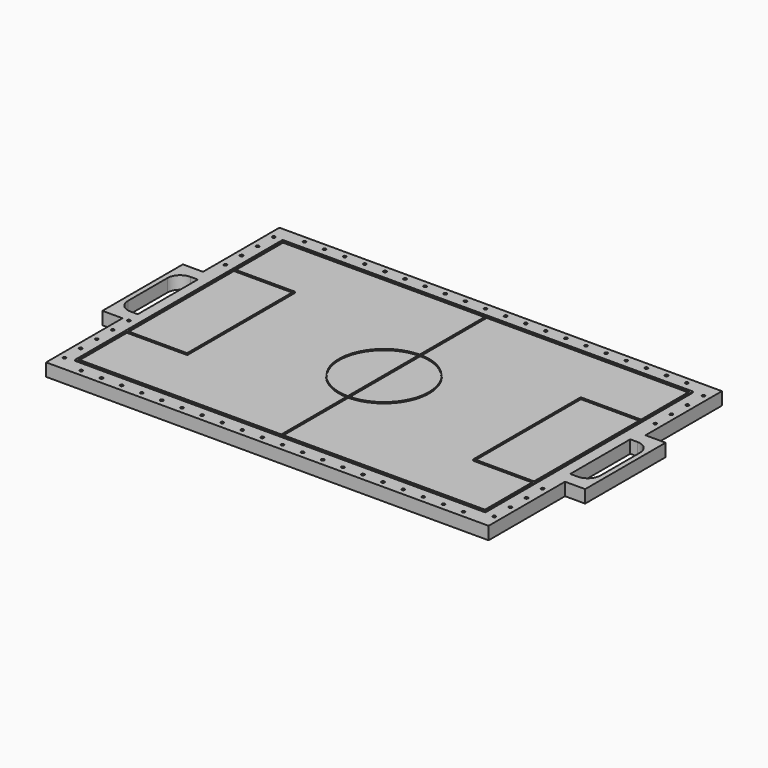
from build123d import *

# Parameters (mm, degrees)
F0_R     = 1.5
F1_DEPTH = 12.7
F2_W     = 408
F2_H     = 258
F2_W_2   = 59
F2_H_2   = 132
F3_DEPTH = 1


with BuildPart() as f1:
    # F0 (on Top) → F1 (new body)
    with BuildSketch(Plane.XY):
        Polygon((103.953788, 154.93784), (-336.046212, 154.93784), (-336.046212, 59.93784), (-356.046212, 59.93784), (-356.046212, -40.06216), (-336.046212, -40.06216), (-336.046212, -135.06216), (103.953788, -135.06216), (103.953788, -40.06216), (123.953788, -40.06216), (123.953788, 59.93784), (103.953788, 59.93784), align=None)
        with Locations((-329.696212, -120.06216)):
            Circle(F0_R, mode=Mode.SUBTRACT)
        with Locations((-306.046212, -128.71216)):
            Circle(F0_R, mode=Mode.SUBTRACT)
        with Locations((-329.701892, -100.062161)):
            Circle(F0_R, mode=Mode.SUBTRACT)
        with Locations((-286.046212, -128.71216)):
            Circle(F0_R, mode=Mode.SUBTRACT)
        with Locations((-266.046212, -128.71216)):
            Circle(F0_R, mode=Mode.SUBTRACT)
        with Locations((-246.046212, -128.71216)):
            Circle(F0_R, mode=Mode.SUBTRACT)
        with Locations((-329.707572, -80.062162)):
            Circle(F0_R, mode=Mode.SUBTRACT)
        with Locations((-226.046212, -128.71216)):
            Circle(F0_R, mode=Mode.SUBTRACT)
        with Locations((-206.046212, -128.71216)):
            Circle(F0_R, mode=Mode.SUBTRACT)
        with Locations((-186.046212, -128.71216)):
            Circle(F0_R, mode=Mode.SUBTRACT)
        with Locations((-166.046212, -128.71216)):
            Circle(F0_R, mode=Mode.SUBTRACT)
        with Locations((-146.046212, -128.71216)):
            Circle(F0_R, mode=Mode.SUBTRACT)
        with Locations((-126.046212, -128.71216)):
            Circle(F0_R, mode=Mode.SUBTRACT)
        with Locations((-329.713253, -60.062163)):
            Circle(F0_R, mode=Mode.SUBTRACT)
        with Locations((-329.718933, -40.062164)):
            Circle(F0_R, mode=Mode.SUBTRACT)
        with Locations((-106.046212, -128.71216)):
            Circle(F0_R, mode=Mode.SUBTRACT)
        with Locations((-86.046212, -128.71216)):
            Circle(F0_R, mode=Mode.SUBTRACT)
        with Locations((-66.046212, -128.71216)):
            Circle(F0_R, mode=Mode.SUBTRACT)
        with Locations((-46.046212, -128.71216)):
            Circle(F0_R, mode=Mode.SUBTRACT)
        with Locations((-26.046212, -128.71216)):
            Circle(F0_R, mode=Mode.SUBTRACT)
        with Locations((-6.046212, -128.71216)):
            Circle(F0_R, mode=Mode.SUBTRACT)
        with Locations((13.953788, -128.71216)):
            Circle(F0_R, mode=Mode.SUBTRACT)
        with Locations((33.953788, -128.71216)):
            Circle(F0_R, mode=Mode.SUBTRACT)
        with Locations((53.953788, -128.71216)):
            Circle(F0_R, mode=Mode.SUBTRACT)
        with Locations((73.953788, -128.71216)):
            Circle(F0_R, mode=Mode.SUBTRACT)
        with Locations((97.603788, -120.06216)):
            Circle(F0_R, mode=Mode.SUBTRACT)
        with Locations((97.609468, -100.062161)):
            Circle(F0_R, mode=Mode.SUBTRACT)
        with Locations((97.615149, -80.062162)):
            Circle(F0_R, mode=Mode.SUBTRACT)
        with Locations((97.620829, -60.062163)):
            Circle(F0_R, mode=Mode.SUBTRACT)
        with BuildLine():
            Line((-331.046212, 47.23784), (-331.046212, -27.36216))
            Line((-331.046212, -27.36216), (-338.346212, -27.36216))
            ThreePointArc((-338.346212, -27.36216), (-347.326468, -23.642417), (-351.046212, -14.66216))
            Line((-351.046212, -14.66216), (-351.046212, 34.53784))
            ThreePointArc((-351.046212, 34.53784), (-347.326468, 43.518096), (-338.346212, 47.23784))
            Line((-338.346212, 47.23784), (-331.046212, 47.23784))
        make_face(mode=Mode.SUBTRACT)
        with Locations((-329.713253, 79.937842)):
            Circle(F0_R, mode=Mode.SUBTRACT)
        with Locations((-329.707572, 99.937841)):
            Circle(F0_R, mode=Mode.SUBTRACT)
        with Locations((-329.701892, 119.93784)):
            Circle(F0_R, mode=Mode.SUBTRACT)
        with Locations((-329.696212, 139.93784)):
            Circle(F0_R, mode=Mode.SUBTRACT)
        with Locations((-306.046212, 148.58784)):
            Circle(F0_R, mode=Mode.SUBTRACT)
        with Locations((-286.046212, 148.58784)):
            Circle(F0_R, mode=Mode.SUBTRACT)
        with Locations((-266.046212, 148.58784)):
            Circle(F0_R, mode=Mode.SUBTRACT)
        with Locations((-246.046212, 148.58784)):
            Circle(F0_R, mode=Mode.SUBTRACT)
        with Locations((-226.046212, 148.58784)):
            Circle(F0_R, mode=Mode.SUBTRACT)
        with Locations((-206.046212, 148.58784)):
            Circle(F0_R, mode=Mode.SUBTRACT)
        with Locations((-186.046212, 148.58784)):
            Circle(F0_R, mode=Mode.SUBTRACT)
        with Locations((-166.046212, 148.58784)):
            Circle(F0_R, mode=Mode.SUBTRACT)
        with Locations((-146.046212, 148.58784)):
            Circle(F0_R, mode=Mode.SUBTRACT)
        with Locations((-126.046212, 148.58784)):
            Circle(F0_R, mode=Mode.SUBTRACT)
        with BuildLine():
            Line((106.253788, -27.36216), (98.953788, -27.36216))
            Line((98.953788, -27.36216), (98.953788, 47.23784))
            Line((98.953788, 47.23784), (106.253788, 47.23784))
            ThreePointArc((106.253788, 47.23784), (115.234044, 43.518096), (118.953788, 34.53784))
            Line((118.953788, 34.53784), (118.953788, -14.66216))
            ThreePointArc((118.953788, -14.66216), (115.234044, -23.642417), (106.253788, -27.36216))
        make_face(mode=Mode.SUBTRACT)
        with Locations((97.620829, 79.937842)):
            Circle(F0_R, mode=Mode.SUBTRACT)
        with Locations((-106.046212, 148.58784)):
            Circle(F0_R, mode=Mode.SUBTRACT)
        with Locations((-86.046212, 148.58784)):
            Circle(F0_R, mode=Mode.SUBTRACT)
        with Locations((-66.046212, 148.58784)):
            Circle(F0_R, mode=Mode.SUBTRACT)
        with Locations((-46.046212, 148.58784)):
            Circle(F0_R, mode=Mode.SUBTRACT)
        with Locations((-26.046212, 148.58784)):
            Circle(F0_R, mode=Mode.SUBTRACT)
        with Locations((-6.046212, 148.58784)):
            Circle(F0_R, mode=Mode.SUBTRACT)
        with Locations((97.615149, 99.937841)):
            Circle(F0_R, mode=Mode.SUBTRACT)
        with Locations((13.953788, 148.58784)):
            Circle(F0_R, mode=Mode.SUBTRACT)
        with Locations((33.953788, 148.58784)):
            Circle(F0_R, mode=Mode.SUBTRACT)
        with Locations((53.953788, 148.58784)):
            Circle(F0_R, mode=Mode.SUBTRACT)
        with Locations((97.609468, 119.93784)):
            Circle(F0_R, mode=Mode.SUBTRACT)
        with Locations((73.953788, 148.58784)):
            Circle(F0_R, mode=Mode.SUBTRACT)
        with Locations((97.603788, 139.93784)):
            Circle(F0_R, mode=Mode.SUBTRACT)
    extrude(amount=F1_DEPTH)

    # F2 (on face) → F3 (join)
    with BuildSketch(Plane.XY.offset(12.7)):
        with Locations((-116.046212, 9.93784)):
            Rectangle(F2_W, F2_H)
        with Locations((-288.546212, 9.93784)):
            Rectangle(F2_W_2, F2_H_2, mode=Mode.SUBTRACT)
        with BuildLine():
            Line((-318.046212, 76.93784), (-318.046212, 136.93784))
            Line((-318.046212, 136.93784), (-116.546212, 136.93784))
            Line((-116.546212, 136.93784), (-116.546212, 54.935062))
            ThreePointArc((-116.546212, 54.935062), (-161.046212, 9.93784), (-116.546212, -35.059383))
            Line((-116.546212, -35.059383), (-116.546212, -117.06216))
            Line((-116.546212, -117.06216), (-318.046212, -117.06216))
            Line((-318.046212, -117.06216), (-318.046212, -57.06216))
            Line((-318.046212, -57.06216), (-258.046212, -57.06216))
            Line((-258.046212, -57.06216), (-258.046212, 76.93784))
            Line((-258.046212, 76.93784), (-318.046212, 76.93784))
        make_face(mode=Mode.SUBTRACT)
        with BuildLine():
            ThreePointArc((-116.546212, -34.559351), (-160.546212, 9.93784), (-116.546212, 54.435031))
            Line((-116.546212, 54.435031), (-116.546212, -34.559351))
        make_face(mode=Mode.SUBTRACT)
        with BuildLine():
            Line((-115.546212, -34.559351), (-115.546212, 54.435031))
            ThreePointArc((-115.546212, 54.435031), (-71.546212, 9.93784), (-115.546212, -34.559351))
        make_face(mode=Mode.SUBTRACT)
        with BuildLine():
            Line((-115.546212, 136.93784), (85.953788, 136.93784))
            Line((85.953788, 136.93784), (85.953788, 76.93784))
            Line((85.953788, 76.93784), (25.953788, 76.93784))
            Line((25.953788, 76.93784), (25.953788, -57.06216))
            Line((25.953788, -57.06216), (85.953788, -57.06216))
            Line((85.953788, -57.06216), (85.953788, -117.06216))
            Line((85.953788, -117.06216), (-115.546212, -117.06216))
            Line((-115.546212, -117.06216), (-115.546212, -35.059383))
            ThreePointArc((-115.546212, -35.059383), (-71.046212, 9.93784), (-115.546212, 54.935062))
            Line((-115.546212, 54.935062), (-115.546212, 136.93784))
        make_face(mode=Mode.SUBTRACT)
        with Locations((56.453788, 9.93784)):
            Rectangle(F2_W_2, F2_H_2, mode=Mode.SUBTRACT)
    extrude(amount=F3_DEPTH)


solid = f1.part
